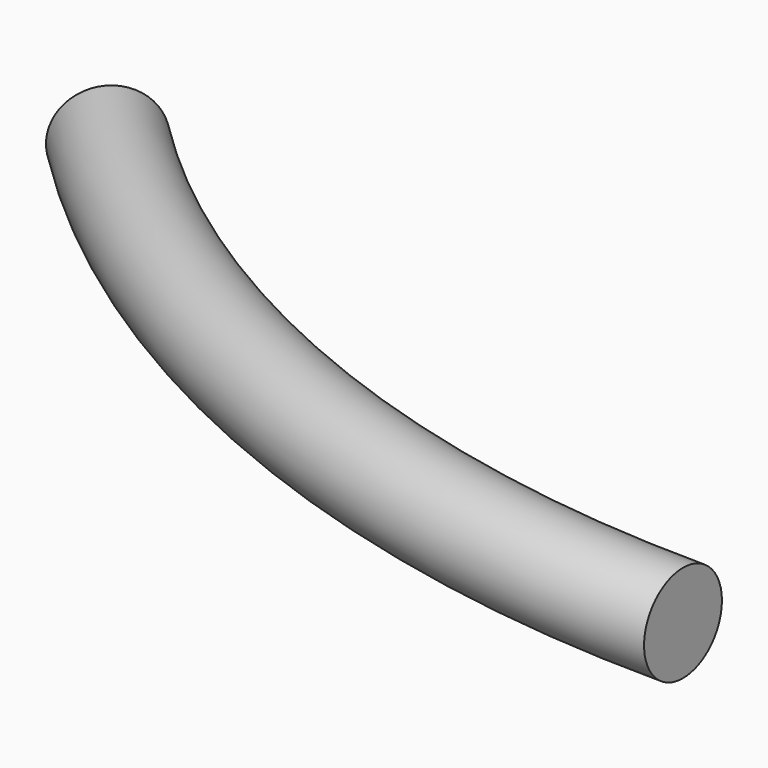
from build123d import *

# Parameters (mm, degrees)
F2_R     = 1.27
F3_ANGLE = 45


with BuildPart() as f3:
    # F2 (on Right) → F3 (revolve)
    with BuildSketch(Plane.YZ):
        Circle(F2_R)
    revolve(axis=Axis((0, 31.75, -5.662058), (0, 0, -1)), revolution_arc=F3_ANGLE)


solid = f3.part
